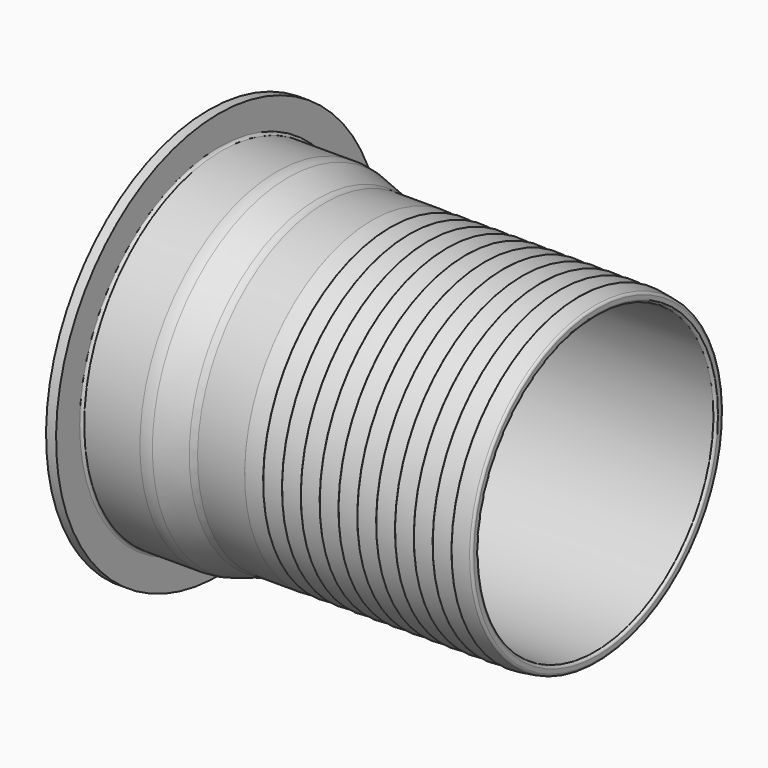
from build123d import *


with BuildPart() as f2:
    # F0 (on Front) → F2 (revolve)
    with BuildSketch(Plane.XZ):
        with BuildLine():
            ThreePointArc((0, 123.257493), (-0.49205, 124.5713), (-1.726087, 125.238647))
            Line((-1.726087, 125.238647), (-14.431522, 126.995289))
            ThreePointArc((-14.431522, 126.995289), (-14.828452, 126.876987), (-15, 126.5))
            Line((-15, 126.5), (-15, 125))
            Line((-15, 125), (-29.431522, 126.995289))
            ThreePointArc((-29.431522, 126.995289), (-29.828452, 126.876987), (-30, 126.5))
            Line((-30, 126.5), (-30, 125))
            Line((-30, 125), (-44.431522, 126.995289))
            ThreePointArc((-44.431522, 126.995289), (-44.828452, 126.876987), (-45, 126.5))
            Line((-45, 126.5), (-45, 125))
            Line((-45, 125), (-59.431522, 126.995289))
            ThreePointArc((-59.431522, 126.995289), (-59.828452, 126.876987), (-60, 126.5))
            Line((-60, 126.5), (-60, 125))
            Line((-60, 125), (-74.431522, 126.995289))
            ThreePointArc((-74.431522, 126.995289), (-74.828452, 126.876987), (-75, 126.5))
            Line((-75, 126.5), (-75, 125))
            Line((-75, 125), (-89.431522, 126.995289))
            ThreePointArc((-89.431522, 126.995289), (-89.828452, 126.876987), (-90, 126.5))
            Line((-90, 126.5), (-90, 125))
            Line((-90, 125), (-104.431522, 126.995289))
            ThreePointArc((-104.431522, 126.995289), (-104.828452, 126.876987), (-105, 126.5))
            Line((-105, 126.5), (-105, 125))
            Line((-105, 125), (-119.431522, 126.995289))
            ThreePointArc((-119.431522, 126.995289), (-119.828452, 126.876987), (-120, 126.5))
            Line((-120, 126.5), (-120, 125))
            Line((-120, 125), (-134.431522, 126.995289))
            ThreePointArc((-134.431522, 126.995289), (-134.828452, 126.876987), (-135, 126.5))
            Line((-135, 126.5), (-135, 125))
            Line((-135, 125), (-149.431522, 126.995289))
            ThreePointArc((-149.431522, 126.995289), (-149.828452, 126.876987), (-150, 126.5))
            Line((-150, 126.5), (-150, 125))
            Line((-150, 125), (-164.431522, 126.995289))
            ThreePointArc((-164.431522, 126.995289), (-164.828452, 126.876987), (-165, 126.5))
            Line((-165, 126.5), (-165, 125))
            Line((-165, 125), (-179.431522, 126.995289))
            ThreePointArc((-179.431522, 126.995289), (-179.46568, 126.998821), (-179.5, 127))
            Line((-179.5, 127), (-216.980443, 127))
            ThreePointArc((-216.980443, 127), (-219.966163, 127.224119), (-222.884967, 127.891452))
            Line((-222.884967, 127.891452), (-246.416973, 135.162821))
            ThreePointArc((-246.416973, 135.162821), (-250.795179, 136.163822), (-255.273759, 136.5))
            Line((-255.273759, 136.5), (-299.654541, 136.5))
            ThreePointArc((-299.654541, 136.5), (-301.068754, 137.085786), (-301.654541, 138.5))
            Line((-301.654541, 138.5), (-301.654541, 162))
            Line((-301.654541, 162), (-309.654541, 162))
            Line((-309.654541, 162), (-309.654541, 132.5))
            ThreePointArc((-309.654541, 132.5), (-308.190074, 128.964466), (-304.654541, 127.5))
            Line((-304.654541, 127.5), (-253.763981, 127.5))
            ThreePointArc((-253.763981, 127.5), (-250.778261, 127.275881), (-247.859456, 126.608548))
            Line((-247.859456, 126.608548), (-224.327451, 119.337179))
            ThreePointArc((-224.327451, 119.337179), (-219.949245, 118.336178), (-215.470664, 118))
            Line((-215.470664, 118), (-2, 118))
            ThreePointArc((-2, 118), (-0.585786, 118.585786), (0, 120))
            Line((0, 120), (0, 123.257493))
        make_face()
    revolve(axis=Axis((-145.232512, 0, 0), (-1, 0, 0)))


solid = f2.part
